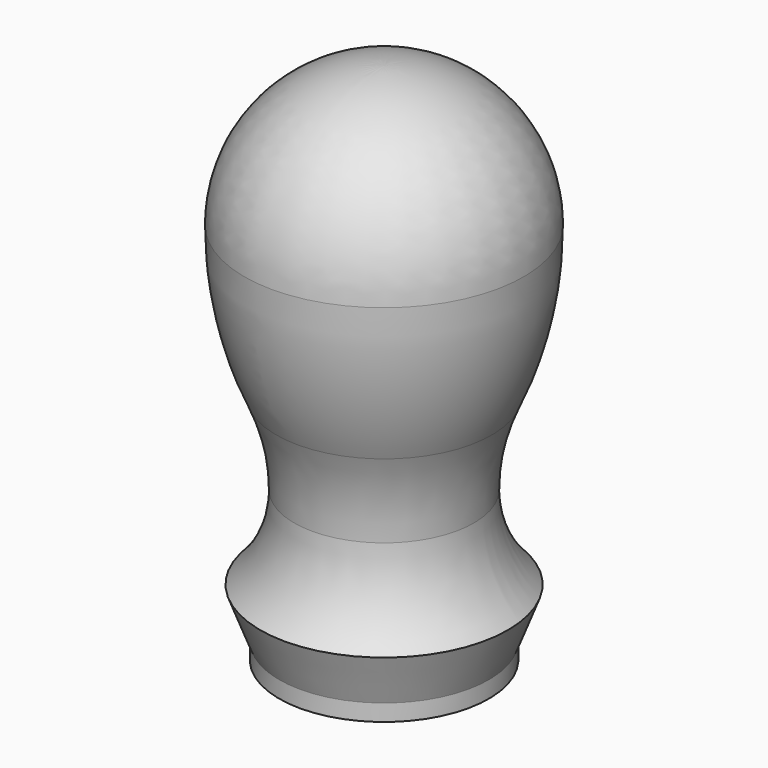
from build123d import *

# Parameters (mm, degrees)
SKETCH001_R  = 1.7272
POCKET_DEPTH = 12.7
FILLET_R     = 1.7272


with BuildPart() as part:
    # Sketch → Revolution (revolve)
    with BuildSketch(Plane.YZ):
        with BuildLine():
            Line((-4.0005, 0), (-4.0005, 0.635))
            Line((-4.0005, 0.635), (-4.7244, 2.54))
            ThreePointArc((-4.7244, 2.54), (-3.76531, 4.000453), (-3.429, 5.715))
            ThreePointArc((-3.429, 5.715), (-3.600998, 7.338539), (-4.109357, 8.89))
            ThreePointArc((-5.334, 14.605), (-5.024403, 11.68263), (-4.109357, 8.89))
            ThreePointArc((0, 19.939), (-3.771708, 18.376708), (-5.334, 14.605))
            Line((0, 19.939), (0, 0))
            Line((-4.0005, 0), (0, 0))
        make_face()
    revolve(axis=Axis((0, 0, 0), (0, 0, 1)))

    # Sketch001 (on Face7 of Revolution) → Pocket (cut)
    with BuildSketch(Plane.YX):
        Circle(SKETCH001_R)
    extrude(amount=-POCKET_DEPTH, mode=Mode.SUBTRACT)

    # Fillet
    fillet_edges = [part.edges().sort_by_distance(p)[0] for p in [
        (0, -1.7272, 12.7),
    ]]
    fillet(fillet_edges, radius=FILLET_R)


solid = part.part
